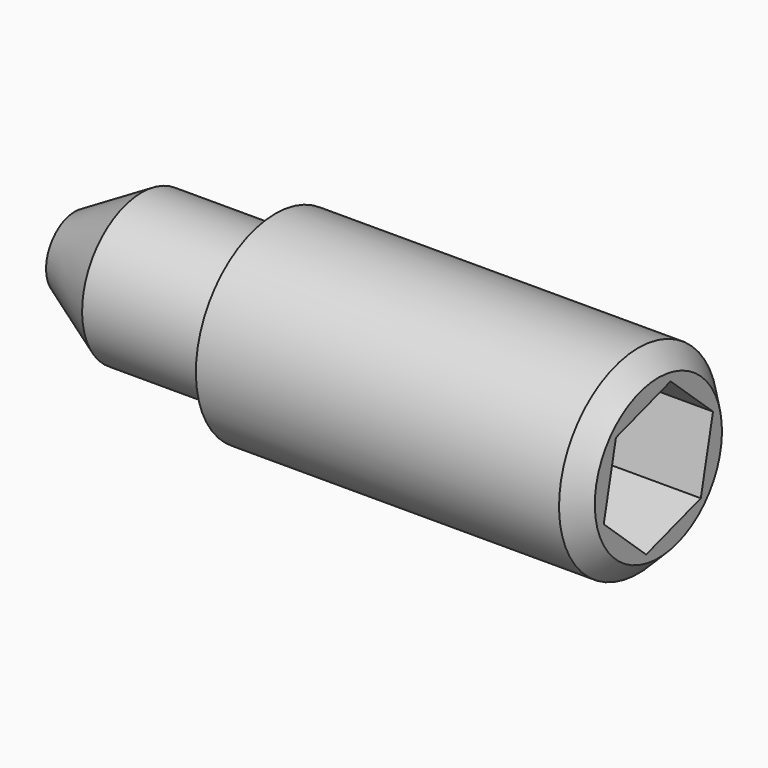
from build123d import *

# Parameters (mm, degrees)
F3_DEPTH = 5
F4_SIZE  = 0.8


with BuildPart() as f1:
    # F0 (on Front) → F1 (revolve)
    with BuildSketch(Plane.XZ):
        Polygon((42.6336441377, -121.3015150939), (39.937491715, -122.8581394209), (39.937491715, -124.3015150939), (63.437491715, -124.3015150939), (63.437491715, -120.3015150939), (48.0148419841, -120.3015150939), (47.437491715, -121.3015150939), align=None)
    revolve(axis=Axis((51.687491715, 0, -124.3015150939), (-1, 0, 0)))

    # F2 (on face) → F3 (cut)
    with BuildSketch(Plane.YZ.offset(63.437491715)):
        Polygon((2.7500788948, -123.423791102), (0.6149081729, -121.4810149127), (-2.1351707219, -122.3587389045), (-2.7500788948, -125.1792390858), (-0.6149081729, -127.1220152751), (2.1351707219, -126.2442912832), align=None)
    extrude(amount=-F3_DEPTH, mode=Mode.SUBTRACT)

    # F4
    f4_edges = [f1.edges().sort_by_distance(p)[0] for p in [
        (63.437492, 0, -128.301515),
    ]]
    chamfer(f4_edges, length=F4_SIZE)


solid = f1.part
